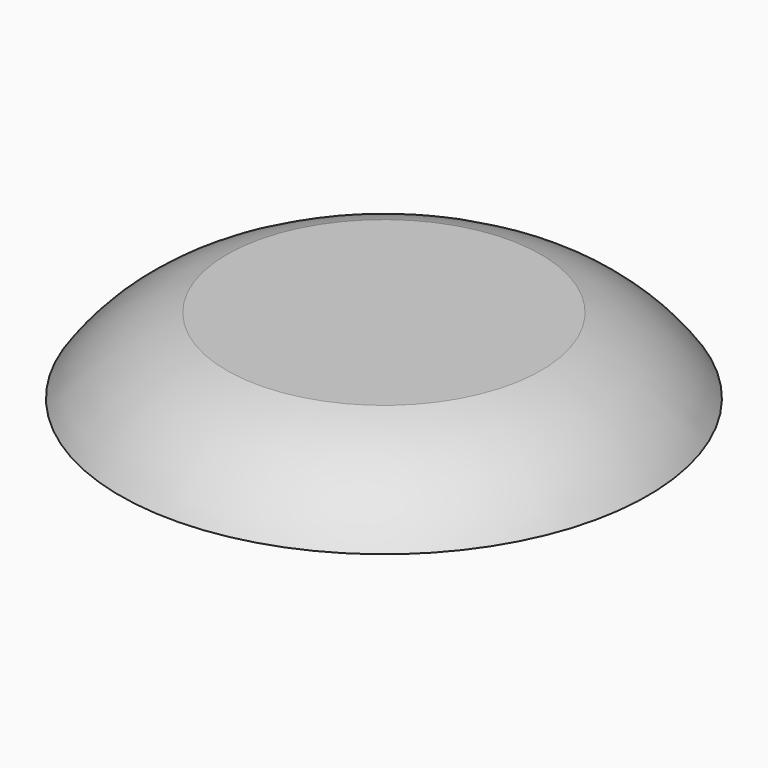
from build123d import *


with BuildPart() as f1:
    # F0 (on Front) → F1 (revolve)
    with BuildSketch(Plane.XZ):
        with BuildLine():
            ThreePointArc((-7.441406, -28.666159), (-10.294035, -29.995149), (-12.501563, -32.238034))
            Line((-12.501563, -32.238034), (0, -32.238034))
            Line((0, -32.238034), (0, -28.666159))
            Line((0, -28.666159), (-7.441406, -28.666159))
        make_face()
    revolve(axis=Axis((0, 0, -30.452097), (0, 0, -1)))


solid = f1.part
